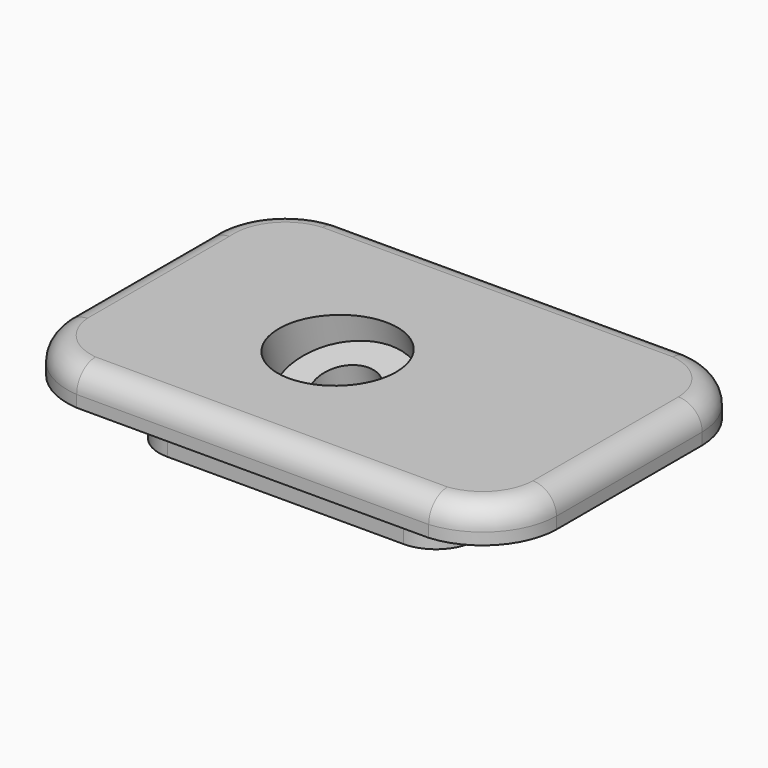
from build123d import *

# Parameters (mm, degrees)
PAD012_DEPTH    = 6
PAD013_DEPTH    = 8
FILLET003_R     = 4
SKETCH038_R     = 10
POCKET023_DEPTH = 13
SKETCH037_R     = 5
POCKET024_DEPTH = 28


with BuildPart() as part:
    # Sketch035 → Pad012 (new body)
    with BuildSketch(Plane.XY):
        with BuildLine():
            ThreePointArc((-41.745088, -16.267645), (-38.019176, -24.312586), (-29.956517, -28))
            Line((30.011514, -28), (-29.956517, -28))
            ThreePointArc((30.011514, -28), (38.300743, -24.027618), (41.782861, -15.520798))
            Line((41.782861, -15.520798), (41.782861, 15.521905))
            ThreePointArc((41.782861, 15.521905), (38.305508, 24.02367), (30.025364, 28))
            Line((-29.988894, 28), (30.025364, 28))
            ThreePointArc((-29.988894, 28), (-38.722289, 23.556252), (-41.745088, 14.235214))
            Line((-41.745088, 14.235214), (-41.745088, -16.267645))
        make_face()
    extrude(amount=PAD012_DEPTH)

    # Sketch036 → Pad013 (join)
    with BuildSketch(Plane.XY.offset(-7)):
        with BuildLine():
            Line((0, -21), (-20.122893, -21))
            ThreePointArc((-27, -14.122893), (-24.985742, -18.985742), (-20.122893, -21))
            Line((-27, 0), (-27, -14.122893))
            Line((-27, 0), (-27, 14.122893))
            ThreePointArc((-20.122893, 21), (-24.985742, 18.985742), (-27, 14.122893))
            Line((0, 21), (-20.122893, 21))
            Line((0, 21), (20.122893, 21))
            ThreePointArc((27, 14.122893), (24.985742, 18.985742), (20.122893, 21))
            Line((27, 0), (27, 14.122893))
            Line((27, 0), (27, -14.122893))
            ThreePointArc((20.122893, -21), (24.985742, -18.985742), (27, -14.122893))
            Line((0, -21), (20.122893, -21))
        make_face()
    extrude(amount=PAD013_DEPTH)

    # Fillet003
    fillet003_edges = [part.edges().sort_by_distance(p)[0] for p in [
        (0.027499, -28, 6),
        (-38.019176, -24.312586, 6),
        (-38.722289, 23.556252, 6),
        (-41.745088, -1.016216, 6),
        (0.018235, 28, 6),
        (38.305508, 24.02367, 6),
        (41.782861, 0.000553, 6),
        (38.300743, -24.027618, 6),
    ]]
    fillet(fillet003_edges, radius=FILLET003_R)

    # Sketch038 → Pocket023 (cut)
    with BuildSketch(Plane(origin=(-6, -4, 12), x_dir=(1, 0, 0), z_dir=(0, -0.258819, 0.965926))):
        Circle(SKETCH038_R)
    extrude(amount=-POCKET023_DEPTH, mode=Mode.SUBTRACT)

    # Sketch037 → Pocket024 (cut)
    with BuildSketch(Plane(origin=(-6, -4, 12), x_dir=(1, 0, 0), z_dir=(0, -0.258819, 0.965926))):
        Circle(SKETCH037_R)
    extrude(amount=-POCKET024_DEPTH, mode=Mode.SUBTRACT)


solid = part.part
